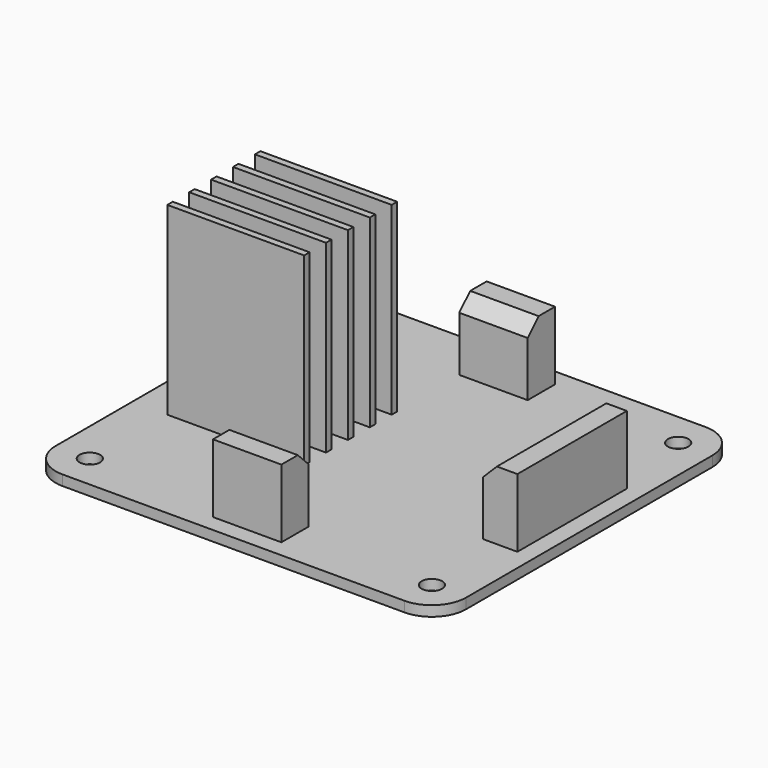
from build123d import *

# Parameters (mm, degrees)
F0_R     = 1.5
F1_DEPTH = 1.5
F2_W     = 20
F2_H     = 1
F3_DEPTH = 27
F4_W     = 10
F4_H     = 5
F4_W_2   = 5
F4_H_2   = 20
F5_DEPTH = 10
F6_SIZE  = 2


with BuildPart() as f1:
    # F0 (on Top) → F1 (new body)
    with BuildSketch(Plane.XY):
        with BuildLine():
            ThreePointArc((30, 22.5), (28.535534, 26.035534), (25, 27.5))
            Line((25, 27.5), (-25, 27.5))
            ThreePointArc((-25, 27.5), (-28.535534, 26.035534), (-30, 22.5))
            Line((-30, 22.5), (-30, -22.5))
            ThreePointArc((-30, -22.5), (-28.535534, -26.035534), (-25, -27.5))
            Line((-25, -27.5), (25, -27.5))
            ThreePointArc((25, -27.5), (28.535534, -26.035534), (30, -22.5))
            Line((30, -22.5), (30, 22.5))
        make_face()
        with Locations((-25, -22.5)):
            Circle(F0_R, mode=Mode.SUBTRACT)
        with Locations((25, -22.5)):
            Circle(F0_R, mode=Mode.SUBTRACT)
        with Locations((-25, 22.5)):
            Circle(F0_R, mode=Mode.SUBTRACT)
        with Locations((25, 22.5)):
            Circle(F0_R, mode=Mode.SUBTRACT)
    extrude(amount=-F1_DEPTH)

    # F2 (on face) → F3 (join)
    with BuildSketch(Plane.XY):
        with Locations((-14.875233, 0)):
            Rectangle(F2_W, F2_H)
        with Locations((-14.875233, 4)):
            Rectangle(F2_W, F2_H)
        with Locations((-14.875233, 8)):
            Rectangle(F2_W, F2_H)
        with Locations((-14.875233, -4)):
            Rectangle(F2_W, F2_H)
        with Locations((-14.875233, -8)):
            Rectangle(F2_W, F2_H)
    extrude(amount=F3_DEPTH)

    # F4 (on face) → F5 (join)
    with BuildSketch(Plane.XY):
        with Locations((0, 22.5)):
            Rectangle(F4_W, F4_H)
        with Locations((0, -22.5)):
            Rectangle(F4_W, F4_H)
        with Locations((25, 0)):
            Rectangle(F4_W_2, F4_H_2)
    extrude(amount=F5_DEPTH)

    # F6
    f6_edges = [f1.edges().sort_by_distance(p)[0] for p in [
        (0, 20, 10),
        (22.5, 0, 10),
        (0, -20, 10),
    ]]
    chamfer(f6_edges, length=F6_SIZE)


solid = f1.part
